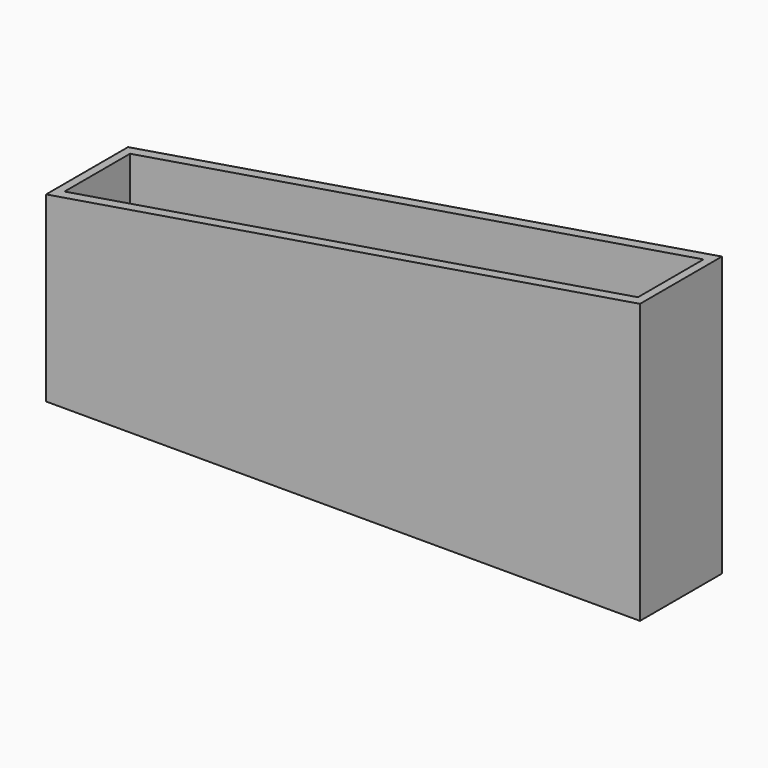
from build123d import *

# Parameters (mm, degrees)
F1_DEPTH = 25.4
F2_T     = -2.54
F3_W     = 2.54
F3_H     = 20.32
F4_DEPTH = 38.1
F6_DEPTH = 2.54


with BuildPart() as f1:
    # F0 (on Front) → F1 (new body)
    with BuildSketch(Plane.XZ):
        Polygon((-66.060728, 15.077978), (-66.060728, -30.15408), (81.259272, -30.15408), (81.259272, 39.08381), align=None)
    extrude(amount=F1_DEPTH)

    # F2
    f2_openings = [f1.faces().sort_by_distance(p)[0] for p in [
        (7.599272, -12.7, 27.080894),
    ]]
    offset(amount=F2_T, openings=f2_openings)

    # F3 (on face) → F4 (join)
    with BuildSketch(Plane.XY.offset(-27.61408)):
        with Locations((31.729272, -12.7)):
            Rectangle(F3_W, F3_H)
        with Locations((-16.530728, -12.7)):
            Rectangle(F3_W, F3_H)
    extrude(amount=F4_DEPTH)

    # F5 (on Front) → F6 (join)
    with BuildSketch(Plane.XZ):
        Polygon((-26.697874, 0), (-31.276897, 0), (-31.276897, -17.934263), (-26.697874, -17.934263), (-26.697874, -8.967131), (-25.506107, -8.967131), (-24.200872, -11.420006), (-23.090161, -11.420006), (-21.97945, -11.420006), (-20.674216, -8.967131), (-19.482449, -8.967131), (-19.482449, -17.934263), (-15.020955, -17.934263), (-15.020955, 0), (-19.482449, 0), (-21.97945, -6.206409), (-24.200872, -6.206409), align=None)
    extrude(amount=-F6_DEPTH)


solid = f1.part
